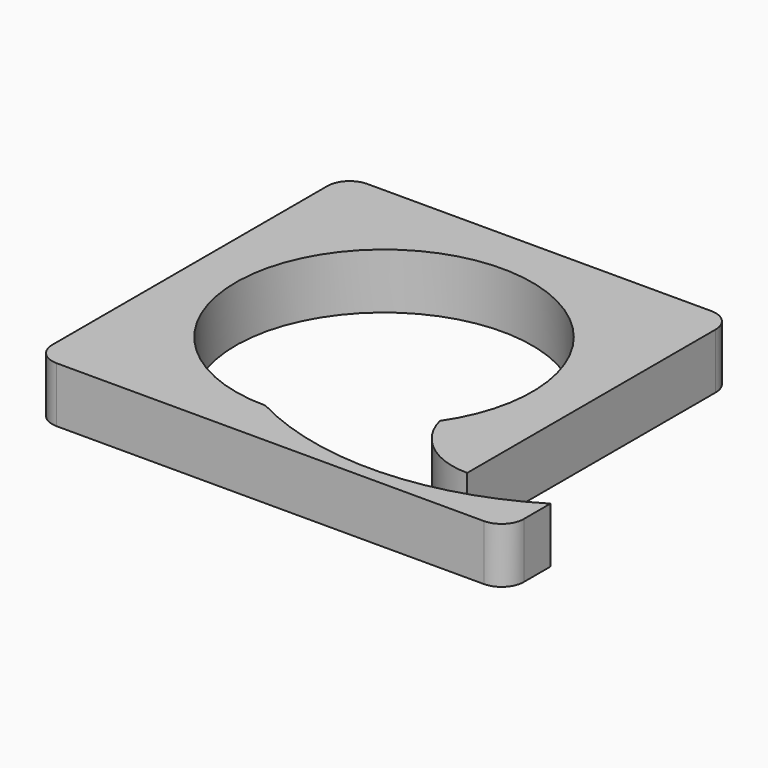
from build123d import *

# Parameters (mm, degrees)
F1_DEPTH = 12.7
F2_R     = 5.08


with BuildPart() as f1:
    # F0 (on Top) → F1 (new body)
    with BuildSketch(Plane.XY):
        with BuildLine():
            Line((44.45, 44.45), (-44.45, 44.45))
            Line((-44.45, 44.45), (-44.45, -44.45))
            Line((-44.45, -44.45), (44.45, -44.45))
            Line((44.45, -44.45), (63.5, -44.45))
            Line((63.5, -44.45), (63.5, -31.75))
            ThreePointArc((63.5, -31.75), (32.038089, -41.231255), (0, -33.930098))
            ThreePointArc((0, -33.930098), (-15.862203, 29.994034), (28.044213, -19.099048))
            ThreePointArc((28.044213, -19.099048), (34.091472, -28.219957), (44.45, -31.75))
            Line((44.45, -31.75), (44.45, 44.45))
        make_face()
    extrude(amount=F1_DEPTH)

    # F2
    f2_edges = [f1.edges().sort_by_distance(p)[0] for p in [
        (-44.45, -44.45, 6.35),
        (63.5, -44.45, 6.35),
        (44.45, 44.45, 6.35),
        (-44.45, 44.45, 6.35),
    ]]
    fillet(f2_edges, radius=F2_R)


solid = f1.part
